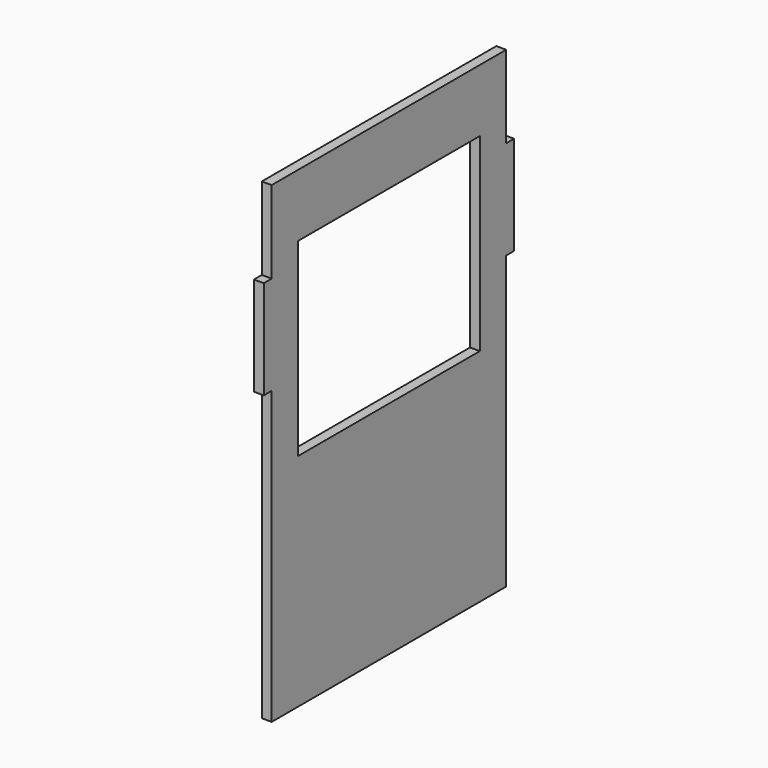
from build123d import *

# Parameters (mm, degrees)
F0_W     = 3
F0_H     = 30
F1_DEPTH = 3
F2_W     = 69
F2_H     = 57.5
F3_DEPTH = 25


with BuildPart() as f1:
    # F0 (on Right) → F1 (new body)
    with BuildSketch(Plane.YZ):
        Polygon((-89, 0), (0, 0), (0, 88.5), (0, 118.5), (0, 143.5), (-89, 143.5), (-89, 118.5), (-89, 88.5), align=None)
        with Locations((1.5, 103.5)):
            Rectangle(F0_W, F0_H)
        with Locations((-90.5, 103.5)):
            Rectangle(F0_W, F0_H)
    extrude(amount=F1_DEPTH)

    # F2 (on face) → F3 (cut)
    with BuildSketch(Plane.YZ.offset(3)):
        with Locations((-44.5, 95.75)):
            Rectangle(F2_W, F2_H)
    extrude(amount=-F3_DEPTH, mode=Mode.SUBTRACT)


solid = f1.part
